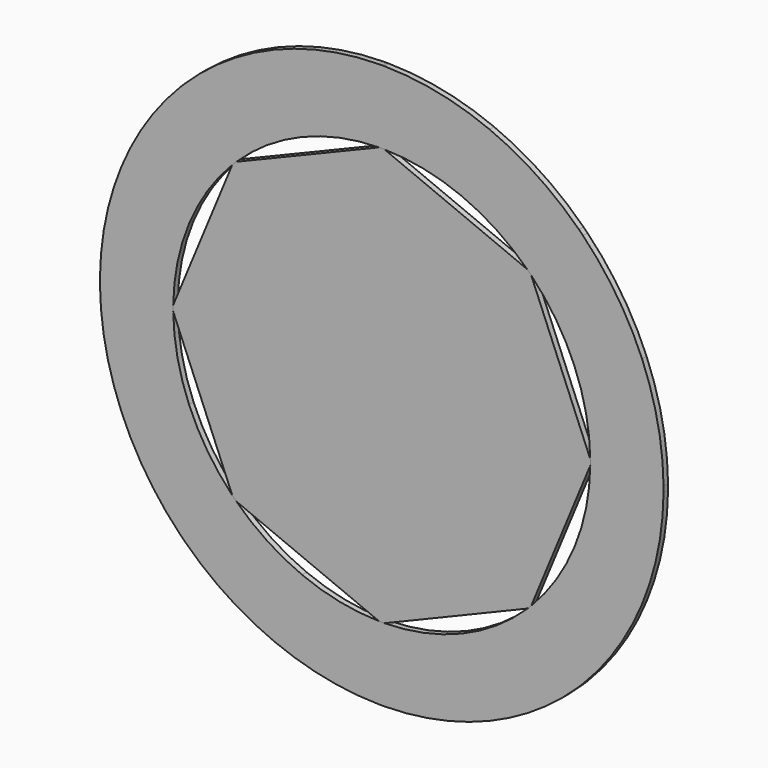
from build123d import *

# Parameters (mm, degrees)
F1_DEPTH = 6.35


with BuildPart() as f1:
    # F0 (on Front) → F1 (new body)
    with BuildSketch(Plane.XZ):
        with BuildLine():
            Line((-293.331752, -89.911472), (-217.065496, -89.911472))
            ThreePointArc((-217.065496, -89.911472), (-230.115125, -47.418687), (-234.927816, -3.228556))
            Line((-234.927816, -3.228556), (-234.95, -3.175))
            Line((-234.95, -3.175), (-317.484125, -3.175))
            ThreePointArc((-317.484125, -3.175), (-311.085724, -63.497419), (-293.331752, -121.50199))
            Line((-293.331752, -121.50199), (-293.331752, -89.911472))
        make_face()
        Polygon((-293.331752, -121.50199), (-217.065496, -89.911472), (-293.331752, -89.911472), align=None)
        Polygon((-217.065496, -121.50199), (-217.065496, -89.911472), (-293.331752, -121.50199), align=None)
        with BuildLine():
            Line((-168.379802, -163.889674), (-168.401986, -163.836118))
            ThreePointArc((-168.401986, -163.836118), (-196.24604, -129.18589), (-217.065496, -89.911472))
            Line((-217.065496, -89.911472), (-217.065496, -121.50199))
            Line((-217.065496, -121.50199), (-293.331752, -121.50199))
            ThreePointArc((-293.331752, -121.50199), (-264.870281, -175.071369), (-226.740241, -222.250113))
            Line((-226.740241, -222.250113), (-168.379802, -163.889674))
        make_face()
        with BuildLine():
            ThreePointArc((-163.874556, -168.364582), (-165.008414, -167.253478), (-166.134738, -166.134738))
            Line((-166.134738, -166.134738), (-168.379802, -163.889674))
            Line((-168.379802, -163.889674), (-226.740241, -222.250113))
            Line((-226.740241, -222.250113), (-224.493206, -224.493206))
            Line((-224.493206, -224.493206), (-221.851465, -227.13031))
            Line((-221.851465, -227.13031), (-163.874556, -168.364582))
        make_face()
        with BuildLine():
            ThreePointArc((-89.911472, -217.065496), (-129.208289, -196.231294), (-163.874556, -168.364582))
            Line((-163.874556, -168.364582), (-221.851465, -227.13031))
            ThreePointArc((-221.851465, -227.13031), (-174.838658, -265.023949), (-121.50199, -293.331752))
            Line((-121.50199, -293.331752), (-121.50199, -217.065496))
            Line((-121.50199, -217.065496), (-89.911472, -217.065496))
        make_face()
        Polygon((-121.50199, -293.331752), (-89.911472, -217.065496), (-121.50199, -217.065496), align=None)
        Polygon((-89.911472, -293.331752), (-89.911472, -217.065496), (-121.50199, -293.331752), align=None)
        with BuildLine():
            ThreePointArc((-3.174928, -234.928547), (-47.392421, -230.120536), (-89.911472, -217.065496))
            Line((-89.911472, -217.065496), (-89.911472, -293.331752))
            Line((-89.911472, -293.331752), (-121.50199, -293.331752))
            ThreePointArc((-121.50199, -293.331752), (-63.497384, -311.085731), (-3.174928, -317.484125))
            Line((-3.174928, -317.484125), (-3.174928, -234.928547))
        make_face()
        with BuildLine():
            ThreePointArc((0, -234.95), (-1.5875, -234.944637), (-3.174928, -234.928547))
            Line((-3.174928, -234.928547), (-3.174928, -317.484125))
            Line((-3.174928, -317.484125), (0, -317.484125))
            Line((0, -317.484125), (3.175, -317.484125))
            Line((3.175, -317.484125), (3.175, -234.95))
            Line((3.175, -234.95), (0, -234.95))
        make_face()
        with BuildLine():
            ThreePointArc((89.894034, -217.072719), (47.409351, -230.117048), (3.228368, -234.927819))
            Line((3.228368, -234.927819), (3.175, -234.95))
            Line((3.175, -234.95), (3.175, -317.484125))
            ThreePointArc((3.175, -317.484125), (63.536764, -311.077691), (121.576185, -293.301008))
            Line((121.576185, -293.301008), (89.894034, -293.301008))
            Line((89.894034, -293.301008), (89.894034, -217.072719))
        make_face()
        Polygon((121.576185, -293.301008), (89.894034, -217.072719), (89.894034, -293.301008), align=None)
        Polygon((121.576185, -217.072719), (89.894034, -217.072719), (121.576185, -293.301008), align=None)
        with BuildLine():
            ThreePointArc((163.880118, -168.359168), (129.203647, -196.23435), (89.894034, -217.072719))
            Line((89.894034, -217.072719), (121.576185, -217.072719))
            Line((121.576185, -217.072719), (121.576185, -293.301008))
            ThreePointArc((121.576185, -293.301008), (175.108135, -264.845976), (222.255708, -226.734758))
            Line((222.255708, -226.734758), (163.880118, -168.359168))
        make_face()
        with BuildLine():
            ThreePointArc((166.134738, -166.134738), (165.011176, -167.250752), (163.880118, -168.359168))
            Line((163.880118, -168.359168), (222.255708, -226.734758))
            Line((222.255708, -226.734758), (224.495205, -224.495205))
            Line((224.495205, -224.495205), (226.740241, -222.250113))
            Line((226.740241, -222.250113), (168.379802, -163.889674))
            Line((168.379802, -163.889674), (166.134738, -166.134738))
        make_face()
        with BuildLine():
            ThreePointArc((217.065496, -89.911472), (196.24604, -129.18589), (168.401986, -163.836118))
            Line((168.401986, -163.836118), (168.379802, -163.889674))
            Line((168.379802, -163.889674), (226.740241, -222.250113))
            ThreePointArc((226.740241, -222.250113), (264.870281, -175.071369), (293.331752, -121.50199))
            Line((293.331752, -121.50199), (217.065496, -121.50199))
            Line((217.065496, -121.50199), (217.065496, -89.911472))
        make_face()
        Polygon((293.331752, -121.50199), (217.065496, -89.911472), (217.065496, -121.50199), align=None)
        Polygon((293.331752, -89.911472), (217.065496, -89.911472), (293.331752, -121.50199), align=None)
        with BuildLine():
            ThreePointArc((234.927816, -3.228556), (230.115125, -47.418687), (217.065496, -89.911472))
            Line((217.065496, -89.911472), (293.331752, -89.911472))
            Line((293.331752, -89.911472), (293.331752, -121.50199))
            ThreePointArc((293.331752, -121.50199), (311.085724, -63.497419), (317.484125, -3.175))
            Line((317.484125, -3.175), (234.95, -3.175))
            Line((234.95, -3.175), (234.927816, -3.228556))
        make_face()
        with BuildLine():
            ThreePointArc((217.065496, 89.911472), (230.115125, 47.418687), (234.927816, 3.228556))
            Line((234.927816, 3.228556), (234.95, 3.175))
            Line((234.95, 3.175), (317.484125, 3.175))
            ThreePointArc((317.484125, 3.175), (311.085724, 63.497419), (293.331752, 121.50199))
            Line((293.331752, 121.50199), (293.331752, 89.911472))
            Line((293.331752, 89.911472), (217.065496, 89.911472))
        make_face()
        Polygon((293.331752, 121.50199), (217.065496, 89.911472), (293.331752, 89.911472), align=None)
        Polygon((217.065496, 121.50199), (217.065496, 89.911472), (293.331752, 121.50199), align=None)
        with BuildLine():
            ThreePointArc((168.401986, 163.836118), (196.24604, 129.18589), (217.065496, 89.911472))
            Line((217.065496, 89.911472), (217.065496, 121.50199))
            Line((217.065496, 121.50199), (293.331752, 121.50199))
            ThreePointArc((293.331752, 121.50199), (264.870281, 175.071369), (226.740241, 222.250113))
            Line((226.740241, 222.250113), (168.379802, 163.889674))
            Line((168.379802, 163.889674), (168.401986, 163.836118))
        make_face()
        with BuildLine():
            Line((121.50199, 217.065496), (89.911472, 217.065496))
            ThreePointArc((89.911472, 217.065496), (129.18589, 196.24604), (163.836118, 168.401986))
            Line((163.836118, 168.401986), (163.889674, 168.379802))
            Line((163.889674, 168.379802), (222.250113, 226.740241))
            ThreePointArc((222.250113, 226.740241), (175.071369, 264.870281), (121.50199, 293.331752))
            Line((121.50199, 293.331752), (121.50199, 217.065496))
        make_face()
        Polygon((234.95, 3.175), (234.95, 0), (234.95, -3.175), (317.484125, -3.175), (317.484125, 0), (317.484125, 3.175), align=None)
        Polygon((163.889674, 168.379802), (166.134738, 166.134738), (168.379802, 163.889674), (226.740241, 222.250113), (224.495177, 224.495177), (222.250113, 226.740241), align=None)
        Polygon((121.50199, 293.331752), (89.911472, 217.065496), (121.50199, 217.065496), align=None)
        Polygon((89.911472, 293.331752), (89.911472, 217.065496), (121.50199, 293.331752), align=None)
        with BuildLine():
            Line((3.175, 234.95), (3.228556, 234.927816))
            ThreePointArc((3.228556, 234.927816), (47.418687, 230.115125), (89.911472, 217.065496))
            Line((89.911472, 217.065496), (89.911472, 293.331752))
            Line((89.911472, 293.331752), (121.50199, 293.331752))
            ThreePointArc((121.50199, 293.331752), (63.497419, 311.085724), (3.175, 317.484125))
            Line((3.175, 317.484125), (3.175, 234.95))
        make_face()
        with BuildLine():
            Line((-89.911472, 293.331752), (-89.911472, 217.065496))
            ThreePointArc((-89.911472, 217.065496), (-47.418687, 230.115125), (-3.228556, 234.927816))
            Line((-3.228556, 234.927816), (-3.175, 234.95))
            Line((-3.175, 234.95), (-3.175, 317.484125))
            ThreePointArc((-3.175, 317.484125), (-63.497419, 311.085724), (-121.50199, 293.331752))
            Line((-121.50199, 293.331752), (-89.911472, 293.331752))
        make_face()
        with BuildLine():
            Line((-3.175, 234.95), (0, 234.95))
            Line((0, 234.95), (3.175, 234.95))
            Line((3.175, 234.95), (3.175, 317.484125))
            ThreePointArc((3.175, 317.484125), (2.381262, 317.49107), (1.58751, 317.496031))
            Line((1.58751, 317.496031), (0, 317.492062))
            Line((0, 317.492062), (-3.175, 317.484125))
            Line((-3.175, 317.484125), (-3.175, 234.95))
        make_face()
        Polygon((-121.50199, 293.331752), (-89.911472, 217.065496), (-89.911472, 293.331752), align=None)
        Polygon((-121.50199, 217.065496), (-89.911472, 217.065496), (-121.50199, 293.331752), align=None)
        with BuildLine():
            Line((-163.889674, 168.379802), (-163.836118, 168.401986))
            ThreePointArc((-163.836118, 168.401986), (-129.18589, 196.24604), (-89.911472, 217.065496))
            Line((-89.911472, 217.065496), (-121.50199, 217.065496))
            Line((-121.50199, 217.065496), (-121.50199, 293.331752))
            ThreePointArc((-121.50199, 293.331752), (-175.071369, 264.870281), (-222.250113, 226.740241))
            Line((-222.250113, 226.740241), (-163.889674, 168.379802))
        make_face()
        Polygon((-168.379802, 163.889674), (-166.134738, 166.134738), (-163.889674, 168.379802), (-222.250113, 226.740241), (-224.495177, 224.495177), (-226.740241, 222.250113), align=None)
        with BuildLine():
            Line((-217.065496, 121.50199), (-217.065496, 89.911472))
            ThreePointArc((-217.065496, 89.911472), (-196.24604, 129.18589), (-168.401986, 163.836118))
            Line((-168.401986, 163.836118), (-168.379802, 163.889674))
            Line((-168.379802, 163.889674), (-226.740241, 222.250113))
            ThreePointArc((-226.740241, 222.250113), (-264.870281, 175.071369), (-293.331752, 121.50199))
            Line((-293.331752, 121.50199), (-217.065496, 121.50199))
        make_face()
        Polygon((-293.331752, 121.50199), (-217.065496, 89.911472), (-217.065496, 121.50199), align=None)
        Polygon((-293.331752, 89.911472), (-217.065496, 89.911472), (-293.331752, 121.50199), align=None)
        Polygon((-234.95, -3.175), (-234.95, 0), (-234.95, 3.175), (-317.484125, 3.175), (-317.484125, 0), (-317.484125, -3.175), align=None)
        with BuildLine():
            Line((-234.95, 3.175), (-234.927816, 3.228556))
            ThreePointArc((-234.927816, 3.228556), (-230.115125, 47.418687), (-217.065496, 89.911472))
            Line((-217.065496, 89.911472), (-293.331752, 89.911472))
            Line((-293.331752, 89.911472), (-293.331752, 121.50199))
            ThreePointArc((-293.331752, 121.50199), (-311.085724, 63.497419), (-317.484125, 3.175))
            Line((-317.484125, 3.175), (-234.95, 3.175))
        make_face()
        with BuildLine():
            ThreePointArc((-168.401986, -163.836118), (-167.27231, -164.989323), (-166.134738, -166.134738))
            Line((-166.134738, -166.134738), (-163.874556, -168.364582))
            Line((-163.874556, -168.364582), (-83.524742, -201.646564))
            Line((-83.524742, -201.646564), (-3.174928, -234.928547))
            Line((-3.174928, -234.928547), (0, -234.95))
            ThreePointArc((0, -234.95), (1.614222, -234.944455), (3.228368, -234.927819))
            Line((3.228368, -234.927819), (83.456302, -201.583327))
            Line((83.456302, -201.583327), (163.737605, -168.216654))
            Line((163.737605, -168.216654), (166.134738, -166.134738))
            ThreePointArc((166.134738, -166.134738), (167.27231, -164.989323), (168.401986, -163.836118))
            Line((168.401986, -163.836118), (201.664901, -83.532337))
            Line((201.664901, -83.532337), (234.927816, -3.228556))
            ThreePointArc((234.927816, -3.228556), (234.944454, -1.614316), (234.95, 0))
            ThreePointArc((234.95, 0), (234.944454, 1.614316), (234.927816, 3.228556))
            Line((234.927816, 3.228556), (201.664901, 83.532337))
            Line((201.664901, 83.532337), (168.401986, 163.836118))
            ThreePointArc((168.401986, 163.836118), (167.27231, 164.989323), (166.134738, 166.134738))
            ThreePointArc((166.134738, 166.134738), (164.989323, 167.27231), (163.836118, 168.401986))
            Line((163.836118, 168.401986), (83.532337, 201.664901))
            Line((83.532337, 201.664901), (3.228556, 234.927816))
            ThreePointArc((3.228556, 234.927816), (1.614316, 234.944454), (0, 234.95))
            ThreePointArc((0, 234.95), (-1.614316, 234.944454), (-3.228556, 234.927816))
            Line((-3.228556, 234.927816), (-83.532337, 201.664901))
            Line((-83.532337, 201.664901), (-163.836118, 168.401986))
            ThreePointArc((-163.836118, 168.401986), (-164.989323, 167.27231), (-166.134738, 166.134738))
            ThreePointArc((-166.134738, 166.134738), (-167.27231, 164.989323), (-168.401986, 163.836118))
            Line((-168.401986, 163.836118), (-201.664901, 83.532337))
            Line((-201.664901, 83.532337), (-234.927816, 3.228556))
            ThreePointArc((-234.927816, 3.228556), (-234.944454, 1.614316), (-234.95, 0))
            ThreePointArc((-234.95, 0), (-234.944454, -1.614316), (-234.927816, -3.228556))
            Line((-234.927816, -3.228556), (-201.664901, -83.532337))
            Line((-201.664901, -83.532337), (-168.401986, -163.836118))
        make_face()
    extrude(amount=F1_DEPTH)


solid = f1.part
